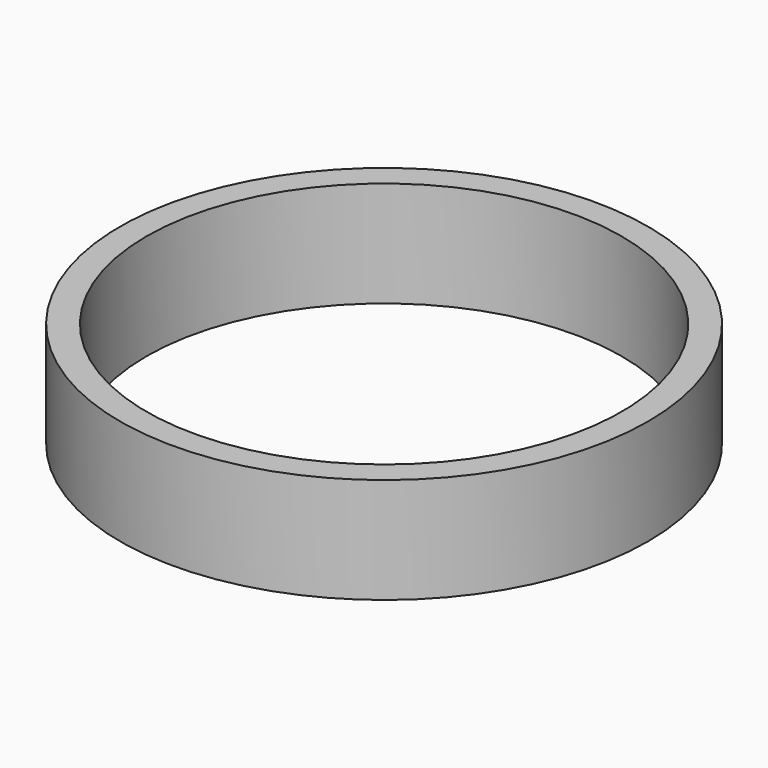
from build123d import *

# Parameters (mm, degrees)
F0_R     = 3.175
F1_DEPTH = 1.27
F3_D     = 5.715
F4_SCALE = 0.5


with BuildPart() as f1:
    # F0 (on Top) → F1 (new body)
    with BuildSketch(Plane.XY):
        with Locations((-52.5779984891, 54.5591972768)):
            Circle(F0_R)
    extrude(amount=F1_DEPTH)

    # F3 (through all)
    with Locations(Plane.XY.offset(1.27)):
        with Locations((-52.5779984891, 54.5591972768)):
            Hole(F3_D / 2)


with BuildPart() as f1_1:
    # F4: moved
    add(f1.part.scale(F4_SCALE))


solid = f1_1.part
